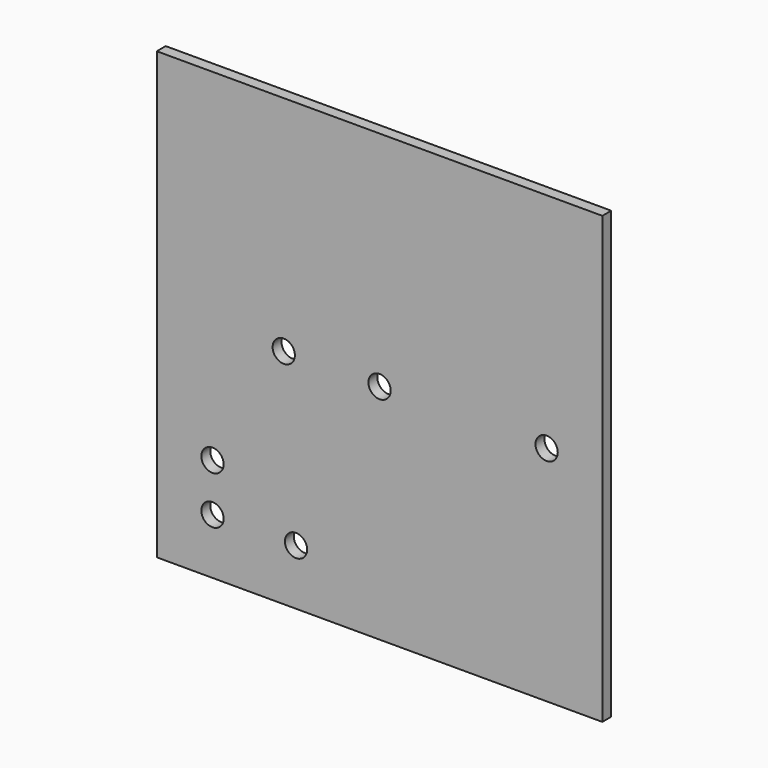
from build123d import *

# Parameters (mm, degrees)
F0_W     = 200
F0_H     = 200
F0_R     = 5
F1_DEPTH = 5


with BuildPart() as f1:
    # F0 (on Front) → F1 (new body)
    with BuildSketch(Plane.XZ):
        Rectangle(F0_W, F0_H)
        with Locations((-75, -75)):
            Circle(F0_R, mode=Mode.SUBTRACT)
        with Locations((-75, -53.5)):
            Circle(F0_R, mode=Mode.SUBTRACT)
        with Locations((-37.5, -75)):
            Circle(F0_R, mode=Mode.SUBTRACT)
        with Locations((-43, 0)):
            Circle(F0_R, mode=Mode.SUBTRACT)
        Circle(F0_R, mode=Mode.SUBTRACT)
        with Locations((75, 0)):
            Circle(F0_R, mode=Mode.SUBTRACT)
    extrude(amount=-F1_DEPTH)


solid = f1.part
